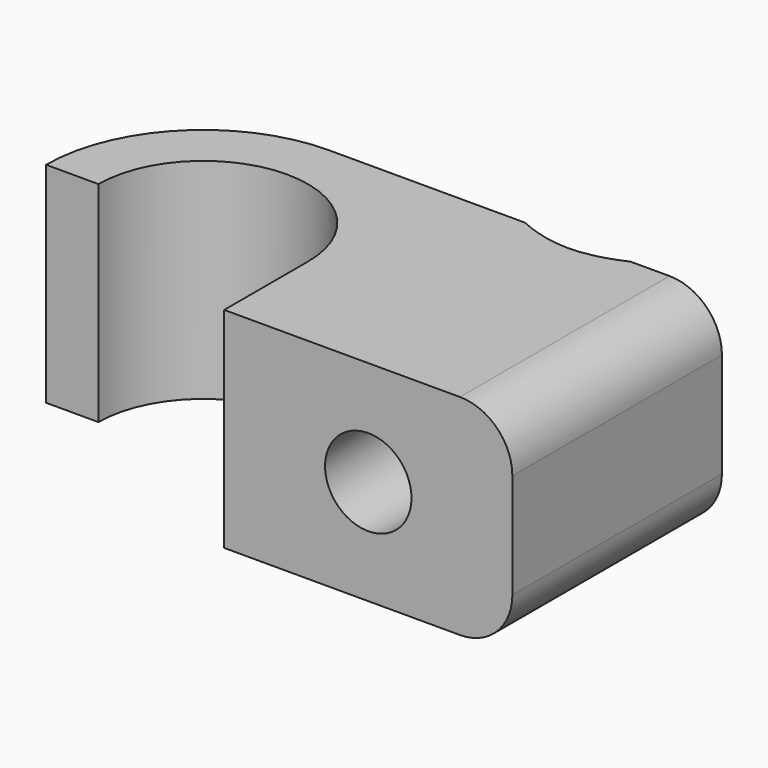
from build123d import *

# Parameters (mm, degrees)
F1_DEPTH       = 4
F3_D           = 3.3
F3_CSINK_D     = 8.96
F3_CSINK_ANGLE = 90
F4_R           = 2


with BuildPart() as f1:
    # F0 (on Top) → F1 (new body, symmetric)
    with BuildSketch(Plane.XY):
        with BuildLine():
            ThreePointArc((-4, 0), (0, 4), (4, 0))
            Line((4, 0), (4, -4))
            Line((4, -4), (15, -4))
            Line((15, -4), (15, 6))
            Line((15, 6), (0, 6))
            ThreePointArc((0, 6), (-4.2426406871, 4.2426406871), (-6, 0))
            Line((-6, 0), (-4, 0))
        make_face()
    extrude(amount=F1_DEPTH, both=True)

    # F3 (through all)
    with Locations(Plane(origin=(0, 6, 0), x_dir=(-1, 0, 0), z_dir=(0, 1, 0))):
        with Locations((-9.5, 0)):
            CounterSinkHole(F3_D / 2, F3_CSINK_D / 2, counter_sink_angle=F3_CSINK_ANGLE)

    # F4
    f4_edges = [f1.edges().sort_by_distance(p)[0] for p in [
        (15, 1, -4),
        (15, 1, 4),
    ]]
    fillet(f4_edges, radius=F4_R)


solid = f1.part
